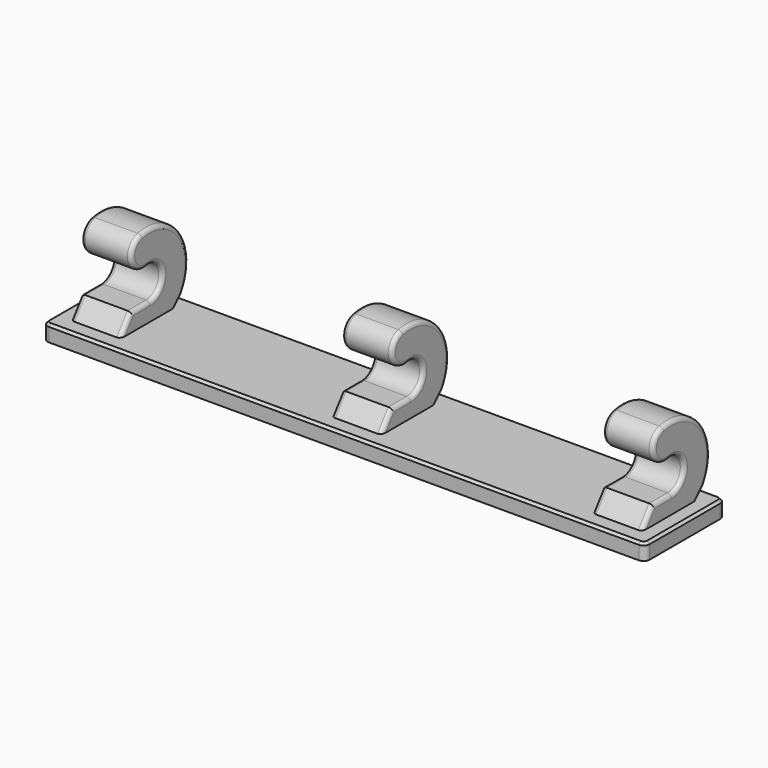
from build123d import *

# Parameters (mm, degrees)
SKETCH_W               = 150
SKETCH_H               = 25
PAD_DEPTH              = 4
PAD001_DEPTH           = 6.25
LINEARPATTERN_COUNT    = 2
LINEARPATTERN_PITCH    = 65
LINEARPATTERN001_COUNT = 2
LINEARPATTERN001_PITCH = 65
FILLET_R               = 1.5
FILLET001_R            = 1
CHAMFER_SIZE           = 0.6


with BuildPart() as part:
    # Sketch → Pad (new body)
    with BuildSketch(Plane.XY):
        Rectangle(SKETCH_W, SKETCH_H)
    extrude(amount=PAD_DEPTH)

    # Sketch002 → Pad001 (join, symmetric)
    with BuildSketch(Plane.YZ):
        with BuildLine():
            ThreePointArc((10.552861, 5.947139), (10.357513, 19.343204), (-2.125, 24.209371))
            ThreePointArc((-2.125, 24.209371), (-5.153124, 19.431247), (-0.375, 16.403124))
            ThreePointArc((0.5, 8.5), (4.475707, 12.940173), (-0.375, 16.403124))
            Line((0.5, 8.5), (-5.25, 8.5))
            Line((-5.25, 8.5), (-8.605722, 4))
            Line((8.605722, 4), (-8.605722, 4))
            Line((10.552861, 5.947139), (8.605722, 4))
        make_face()
    pad001 = extrude(amount=PAD001_DEPTH, both=True)

    # LinearPattern: Pad001 ×2
    with Locations(*[(-i * LINEARPATTERN_PITCH, 0, 0) for i in range(1, LINEARPATTERN_COUNT)]):
        add(pad001)

    # LinearPattern001: Pad001 ×2
    with Locations(*[(i * LINEARPATTERN001_PITCH, 0, 0) for i in range(1, LINEARPATTERN001_COUNT)]):
        add(pad001)

    # Fillet
    fillet_edges = [part.edges().sort_by_distance(p)[0] for p in [
        (-75, 12.5, 2),
        (-75, -12.5, 2),
        (75, 12.5, 2),
        (75, -12.5, 2),
    ]]
    fillet(fillet_edges, radius=FILLET_R)

    # Fillet001
    fillet001_edges = [part.edges().sort_by_distance(p)[0] for p in [
        (71.25, 10.357513, 19.343204),
        (58.75, 10.357513, 19.343204),
        (58.75, -5.153124, 19.431247),
        (58.75, 4.475707, 12.940173),
        (71.25, 4.475707, 12.940173),
        (71.25, -5.153124, 19.431247),
        (71.25, -6.927861, 6.25),
        (71.25, 9.579291, 4.97357),
        (71.25, -2.375, 8.5),
        (58.75, -6.927861, 6.25),
        (58.75, -2.375, 8.5),
        (58.75, 9.579291, 4.97357),
        (6.25, -6.927861, 6.25),
        (6.25, -2.375, 8.5),
        (6.25, 4.475707, 12.940173),
        (6.25, -5.153124, 19.431247),
        (6.25, 10.357513, 19.343204),
        (6.25, 9.579291, 4.97357),
        (-6.25, -6.927861, 6.25),
        (-6.25, -2.375, 8.5),
        (-6.25, 4.475707, 12.940173),
        (-6.25, -5.153124, 19.431247),
        (-6.25, 10.357513, 19.343204),
        (-6.25, 9.579291, 4.97357),
        (-58.75, -6.927861, 6.25),
        (-58.75, -2.375, 8.5),
        (-58.75, 9.579291, 4.97357),
        (-58.75, 10.357513, 19.343204),
        (-58.75, 4.475707, 12.940173),
        (-58.75, -5.153124, 19.431247),
        (-71.25, 10.357513, 19.343204),
        (-71.25, -5.153124, 19.431247),
        (-71.25, 4.475707, 12.940173),
        (-71.25, -2.375, 8.5),
        (-71.25, -6.927861, 6.25),
        (-71.25, 9.579291, 4.97357),
    ]]
    fillet(fillet001_edges, radius=FILLET001_R)

    # Chamfer
    chamfer_edges = [part.edges().sort_by_distance(p)[0] for p in [
        (0, -12.5, 4),
    ]]
    chamfer(chamfer_edges, length=CHAMFER_SIZE)


solid = part.part
